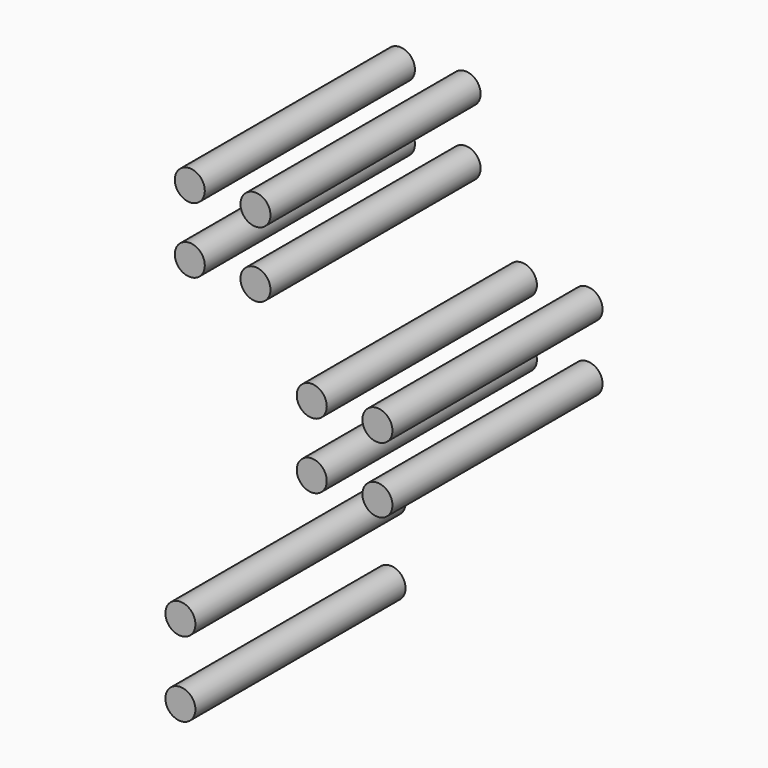
from build123d import *

# Parameters (mm, degrees)
CYLINDER026_R          = 1.6
CYLINDER026_DEPTH      = 28
CYLINDER026_ROLL_ANGLE = 90
CYLINDER029_R          = 1.6
CYLINDER029_DEPTH      = 28
CYLINDER029_ROLL_ANGLE = 90
CYLINDER030_R          = 1.6
CYLINDER030_DEPTH      = 28
CYLINDER030_ROLL_ANGLE = 90
CYLINDER025_R          = 1.6
CYLINDER025_DEPTH      = 28
CYLINDER025_ROLL_ANGLE = 90
CYLINDER027_R          = 1.6
CYLINDER027_DEPTH      = 28
CYLINDER027_ROLL_ANGLE = 90
CYLINDER028_R          = 1.6
CYLINDER028_DEPTH      = 28
CYLINDER028_ROLL_ANGLE = 90


with BuildPart() as cylinder026:
    # Cylinder026 → Cylinder026 (new body)
    with BuildSketch(Plane.XY):
        Circle(CYLINDER026_R)
    extrude(amount=CYLINDER026_DEPTH)


with BuildPart() as cylinder026_1:
    # Cylinder026 roll: moved
    add(cylinder026.part.rotate(Axis((0, 0, 0), (1, 0, 0)), CYLINDER026_ROLL_ANGLE))


with BuildPart() as cylinder026_2:
    # Cylinder026 placement: moved
    add(cylinder026_1.part.moved(Location((47, 20, -51))))


with BuildPart() as cylinder029:
    # Cylinder029 → Cylinder029 (new body)
    with BuildSketch(Plane.XY):
        Circle(CYLINDER029_R)
    extrude(amount=CYLINDER029_DEPTH)


with BuildPart() as cylinder029_1:
    # Cylinder029 roll: moved
    add(cylinder029.part.rotate(Axis((0, 0, 0), (1, 0, 0)), CYLINDER029_ROLL_ANGLE))


with BuildPart() as cylinder029_2:
    # Cylinder029 placement: moved
    add(cylinder029_1.part.moved(Location((55, 20, -17))))


with BuildPart() as cylinder030:
    # Cylinder030 → Cylinder030 (new body)
    with BuildSketch(Plane.XY):
        Circle(CYLINDER030_R)
    extrude(amount=CYLINDER030_DEPTH)


with BuildPart() as cylinder030_1:
    # Cylinder030 roll: moved
    add(cylinder030.part.rotate(Axis((0, 0, 0), (1, 0, 0)), CYLINDER030_ROLL_ANGLE))


with BuildPart() as cylinder030_2:
    # Cylinder030 placement: moved
    add(cylinder030_1.part.moved(Location((55, 20, -10))))


with BuildPart() as cylinder025:
    # Cylinder025 → Cylinder025 (new body)
    with BuildSketch(Plane.XY):
        Circle(CYLINDER025_R)
    extrude(amount=CYLINDER025_DEPTH)


with BuildPart() as cylinder025_1:
    # Cylinder025 roll: moved
    add(cylinder025.part.rotate(Axis((0, 0, 0), (1, 0, 0)), CYLINDER025_ROLL_ANGLE))


with BuildPart() as cylinder025_2:
    # Cylinder025 placement: moved
    add(cylinder025_1.part.moved(Location((48, 20, -10))))


with BuildPart() as cylinder027:
    # Cylinder027 → Cylinder027 (new body)
    with BuildSketch(Plane.XY):
        Circle(CYLINDER027_R)
    extrude(amount=CYLINDER027_DEPTH)


with BuildPart() as cylinder027_1:
    # Cylinder027 roll: moved
    add(cylinder027.part.rotate(Axis((0, 0, 0), (1, 0, 0)), CYLINDER027_ROLL_ANGLE))


with BuildPart() as cylinder027_2:
    # Cylinder027 placement: moved
    add(cylinder027_1.part.moved(Location((48, 20, -17))))


with BuildPart() as fusion060:
    # Fusion060 base: copy of Cylinder027
    add(cylinder027_2.part)

    # Fusion060: union Cylinder029, Cylinder030, Cylinder025
    add(cylinder029_2.part)
    add(cylinder030_2.part)
    add(cylinder025_2.part)


with BuildPart() as fusion061:
    # Fusion061 base: copy of Cylinder027
    add(cylinder027_2.part)

    # Fusion061: union Cylinder029, Cylinder030, Cylinder025
    add(cylinder029_2.part)
    add(cylinder030_2.part)
    add(cylinder025_2.part)


with BuildPart() as fusion061_1:
    # Fusion061 placement: moved
    add(fusion061.part.moved(Location((13, 0, -16))))


with BuildPart() as mount_holes_bottom_left:
    # Cylinder028 → Cylinder028 (new body)
    with BuildSketch(Plane.XY):
        Circle(CYLINDER028_R)
    extrude(amount=CYLINDER028_DEPTH)


with BuildPart() as mount_holes_bottom_left_1:
    # Cylinder028 roll: moved
    add(mount_holes_bottom_left.part.rotate(Axis((0, 0, 0), (1, 0, 0)), CYLINDER028_ROLL_ANGLE))


with BuildPart() as mount_holes_bottom_left_2:
    # Cylinder028 placement: moved
    add(mount_holes_bottom_left_1.part.moved(Location((47, 20, -59))))

    # Fusion062: union Cylinder026, Fusion060, Fusion061
    add(cylinder026_2.part)
    add(fusion060.part)
    add(fusion061_1.part)


solid = mount_holes_bottom_left_2.part
